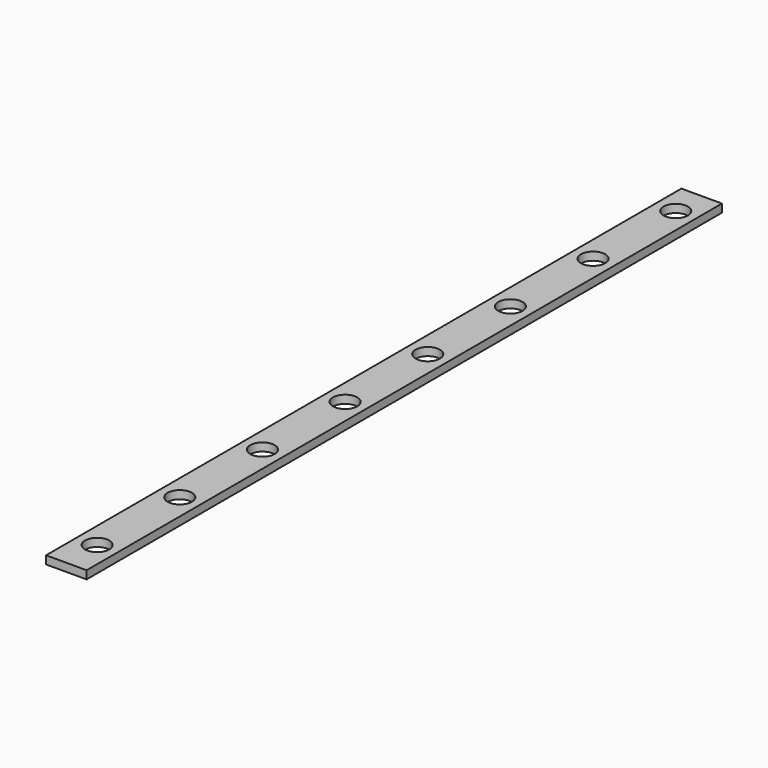
from build123d import *

# Parameters (mm, degrees)
F0_W     = 5
F0_H     = 98
F0_R     = 1.5
F1_DEPTH = 1


with BuildPart() as f1:
    # F0 (on Top) → F1 (new body)
    with BuildSketch(Plane.XY):
        Rectangle(F0_W, F0_H)
        with Locations((0, -44.25)):
            Circle(F0_R, mode=Mode.SUBTRACT)
        with Locations((0, -31.5)):
            Circle(F0_R, mode=Mode.SUBTRACT)
        with Locations((0, -18.75)):
            Circle(F0_R, mode=Mode.SUBTRACT)
        with Locations((0, -6)):
            Circle(F0_R, mode=Mode.SUBTRACT)
        with Locations((0, 6.75)):
            Circle(F0_R, mode=Mode.SUBTRACT)
        with Locations((0, 19.5)):
            Circle(F0_R, mode=Mode.SUBTRACT)
        with Locations((0, 32.25)):
            Circle(F0_R, mode=Mode.SUBTRACT)
        with Locations((0, 45)):
            Circle(F0_R, mode=Mode.SUBTRACT)
    extrude(amount=F1_DEPTH)


solid = f1.part
